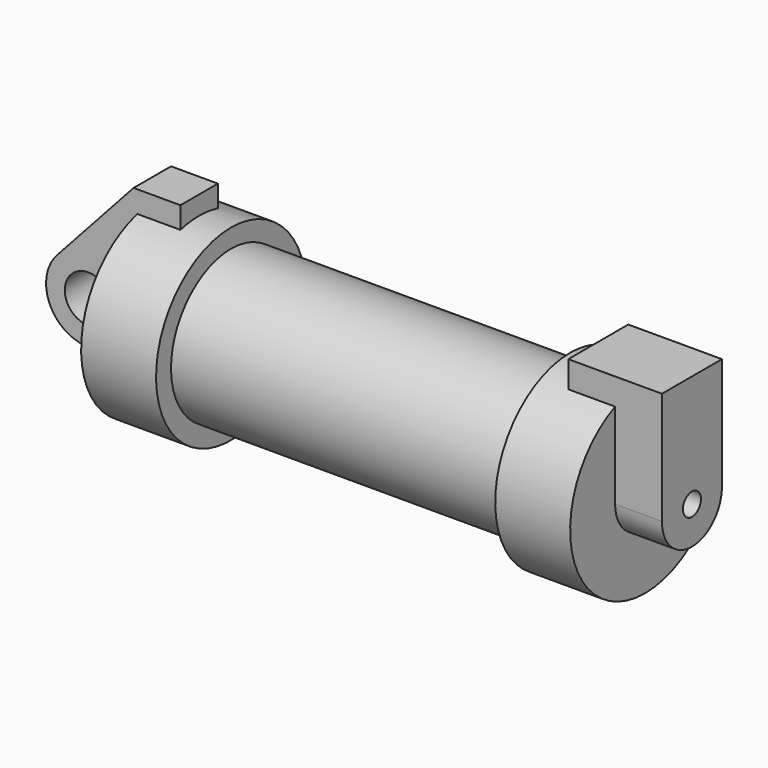
from build123d import *

# Parameters (mm, degrees)
F0_W     = 5.842
F0_H     = 12.7
F0_R     = 3.175
F2_DEPTH = 3.175
F3_R     = 1.524
F4_DEPTH = 6.35


with BuildPart() as f1:
    # F0 (on Front) → F1 (revolve)
    with BuildSketch(Plane.XZ):
        Polygon((5.842, 12.7), (5.842, 0), (66.294, 0), (66.294, 12.7), (56.134, 12.7), (56.134, 10.16), (10.16, 10.16), (10.16, 12.7), align=None)
        with Locations((2.921, 6.35)):
            Rectangle(F0_W, F0_H)
    revolve(axis=Axis((33.147, 0, 0), (-1, 0, 0)))

    # F0 (on Front) → F2 (join, symmetric)
    with BuildSketch(Plane.XZ):
        with BuildLine():
            Line((-0.9398, 0), (0, 0))
            Line((0, 0), (0, 12.7))
            Line((0, 12.7), (5.842, 12.7))
            Line((5.842, 12.7), (5.842, 15.24))
            Line((5.842, 15.24), (-0.508, 15.24))
            Line((-0.508, 15.24), (-10.8806298187, 3.8475430269))
            ThreePointArc((-10.8806298187, 3.8475430269), (-4.5919612295, 5.3297205562), (-0.9398, 0))
        make_face()
        with Locations((2.921, 6.35)):
            Rectangle(F0_W, F0_H)
        with BuildLine():
            Line((5.842, 0), (0, 0))
            Line((0, 0), (-0.9398, 0))
            ThreePointArc((-0.9398, 0), (-3.1957909266, -4.5493385486), (-8.1826630726, -5.5069827884))
            Line((-8.1826630726, -5.5069827884), (5.842, -9.398))
            Line((5.842, -9.398), (5.842, 0))
        make_face()
        with BuildLine():
            ThreePointArc((-8.1826630726, -5.5069827884), (-3.1957909266, -4.5493385486), (-0.9398, 0))
            ThreePointArc((-0.9398, 0), (-4.5919612295, 5.3297205562), (-10.8806298187, 3.8475430269))
            ThreePointArc((-10.8806298187, 3.8475430269), (-12.1459778134, -1.5837270034), (-8.1826630726, -5.5069827884))
        make_face()
        with Locations((-6.6548, 0)):
            Circle(F0_R, mode=Mode.SUBTRACT)
    extrude(amount=F2_DEPTH, both=True)

    # F3 (on face) → F4 (join, symmetric)
    with BuildSketch(Plane.YZ.offset(66.294)):
        with BuildLine():
            ThreePointArc((-5.08, 0), (0, 5.08), (5.08, 0))
            Line((5.08, 0), (5.08, 11.6397422652))
            ThreePointArc((5.08, 11.6397422652), (0, 12.7), (-5.08, 11.6397422652))
            Line((-5.08, 11.6397422652), (-5.08, 0))
        make_face()
        with BuildLine():
            ThreePointArc((-5.08, 0), (0, -5.08), (5.08, 0))
            ThreePointArc((5.08, 0), (0, 5.08), (-5.08, 0))
        make_face()
        Circle(F3_R, mode=Mode.SUBTRACT)
        with BuildLine():
            ThreePointArc((-5.08, 11.6397422652), (0, 12.7), (5.08, 11.6397422652))
            Line((5.08, 11.6397422652), (5.08, 15.24))
            Line((5.08, 15.24), (-5.08, 15.24))
            Line((-5.08, 15.24), (-5.08, 11.6397422652))
        make_face()
    extrude(amount=F4_DEPTH, both=True)


solid = f1.part
